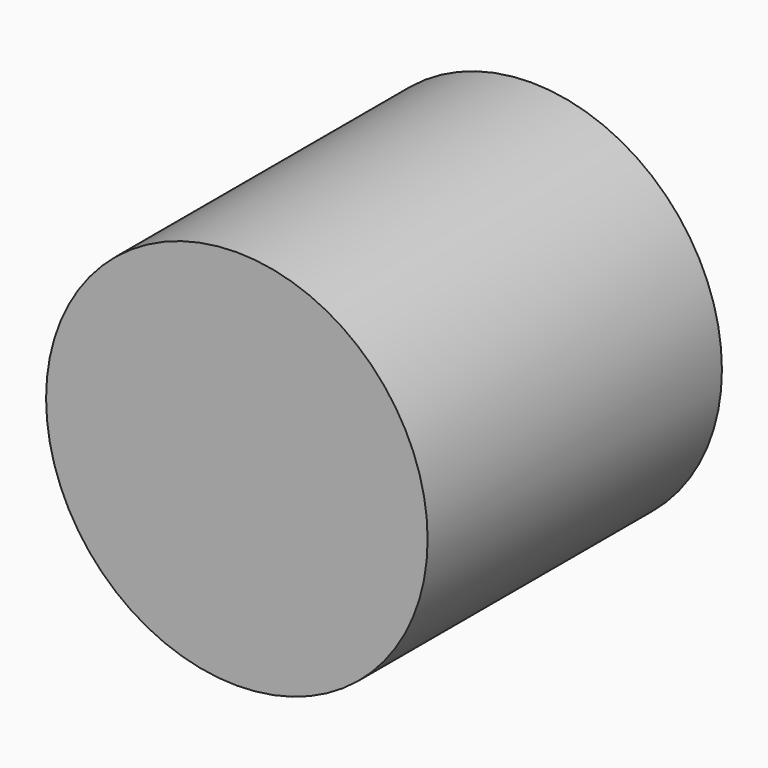
from build123d import *


with BuildPart() as f1:
    # F0 (on Top) → F1 (revolve)
    with BuildSketch(Plane.XY):
        with BuildLine():
            Line((11.214405, 0), (11.214405, 43.250791))
            ThreePointArc((11.214405, 43.250791), (0, 44.681023), (-11.214405, 43.250791))
            Line((-11.214405, 43.250791), (-11.214405, 0))
            Line((-11.214405, 0), (0, 0))
            Line((0, 0), (11.214405, 0))
        make_face()
    revolve(axis=Axis((11.214405, 21.625396, 0), (0, 1, 0)))


solid = f1.part
